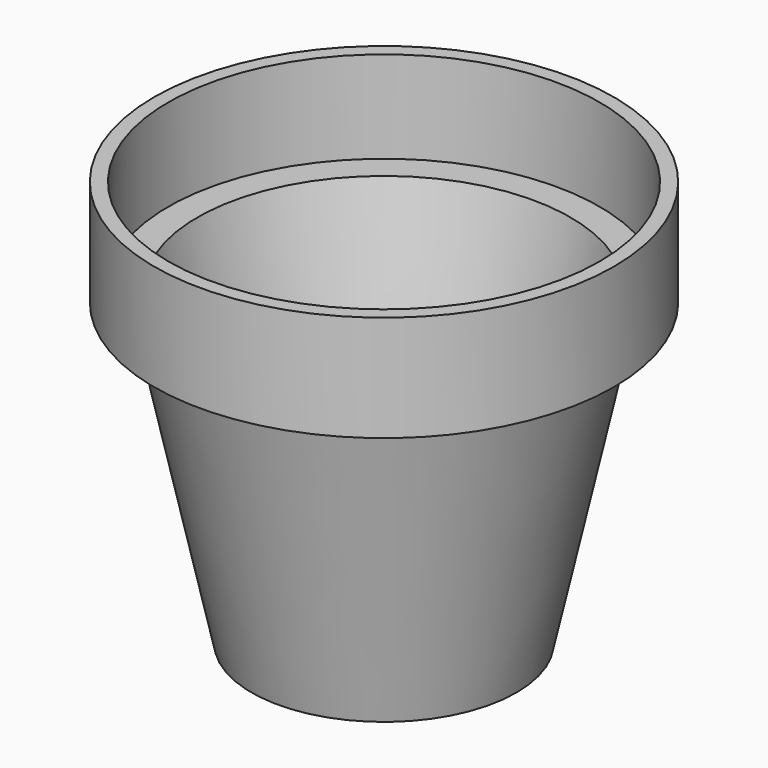
from build123d import *

# Parameters (mm, degrees)
F2_T = -10.16


with BuildPart() as f1:
    # F0 (on Front) → F1 (revolve)
    with BuildSketch(Plane.XZ):
        Polygon((0, 292.1), (0, 0), (95.25, 0), (142.24, 215.9), (165.1, 215.9), (165.1, 292.1), align=None)
    revolve(axis=Axis((0, 0, 146.05), (0, 0, -1)))

    # F2
    f2_openings = [f1.faces().sort_by_distance(p)[0] for p in [
        (0, 0, 292.1),
    ]]
    offset(amount=F2_T, openings=f2_openings, kind=Kind.INTERSECTION)


solid = f1.part
